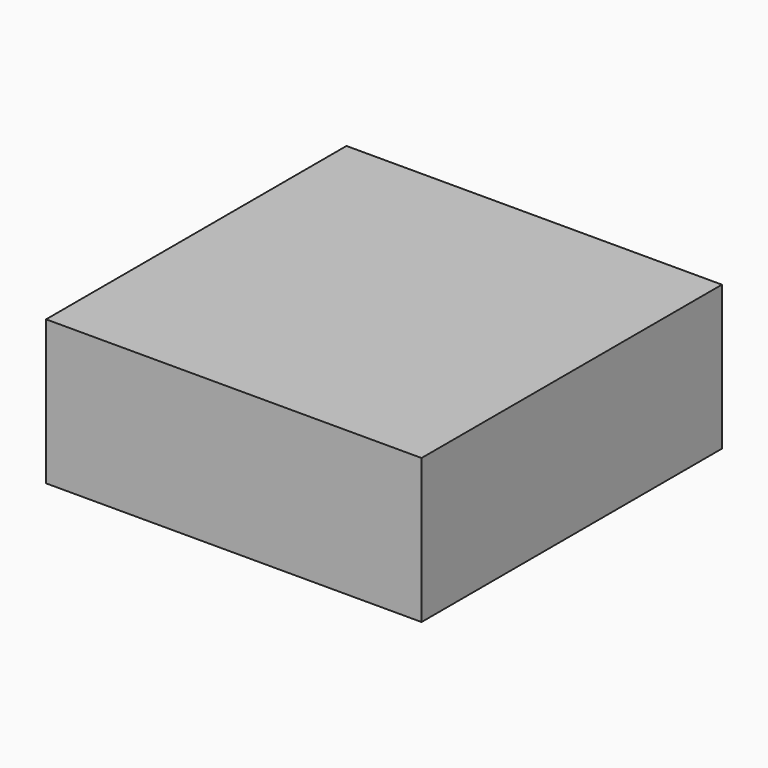
from build123d import *

# Parameters (mm, degrees)
SKETCH_W      = 130
SKETCH_H      = 130
EXTRUDE_DEPTH = 50


with BuildPart() as part:
    # Sketch → Extrude (new body)
    with BuildSketch(Plane.XY):
        Rectangle(SKETCH_W, SKETCH_H)
    extrude(amount=EXTRUDE_DEPTH)


solid = part.part
